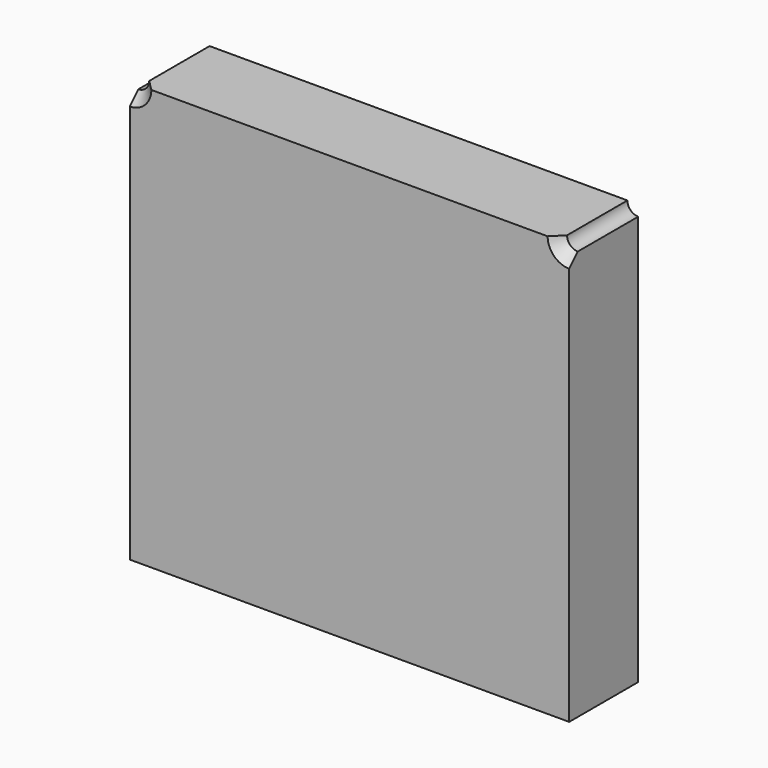
from build123d import *

# Parameters (mm, degrees)
F1_W           = 129.371486
F1_H           = 123.813696
F2_DEPTH       = 25.4
F3_D           = 6.35
F3_CSINK_D     = 12.7
F3_CSINK_ANGLE = 90


with BuildPart() as f2:
    # F1 (on face) → F2 (new body)
    with BuildSketch(Plane.XZ):
        with Locations((-0.020344, -1.934279)):
            Rectangle(F1_W, F1_H)
    extrude(amount=-F2_DEPTH)

    # F3 (through all)
    with Locations(Plane.XZ):
        with Locations((64.665399, 59.972569), (-64.706087, 59.972569)):
            CounterSinkHole(F3_D / 2, F3_CSINK_D / 2, counter_sink_angle=F3_CSINK_ANGLE)


solid = f2.part
